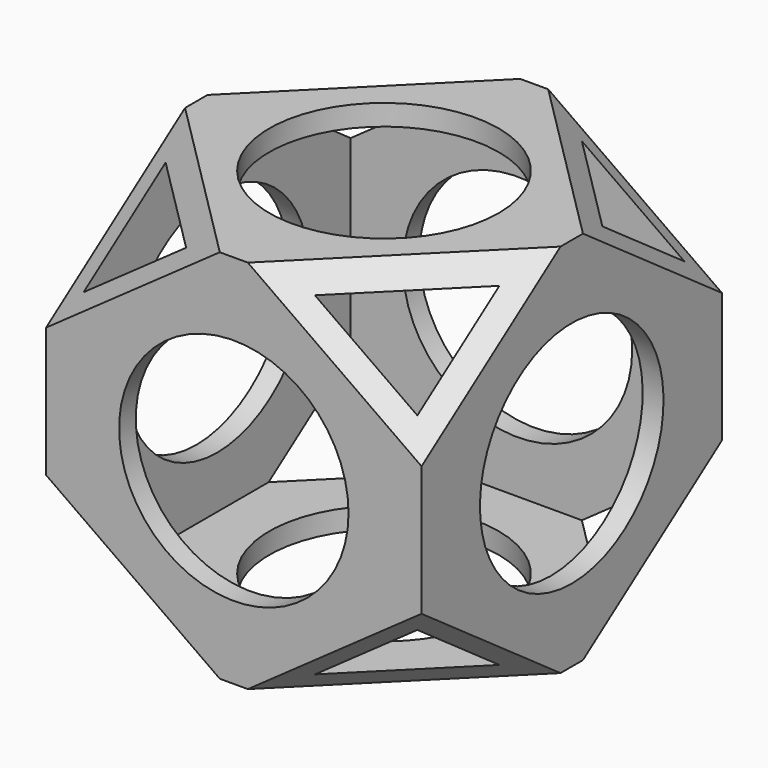
from build123d import *

# Parameters (mm, degrees)
BOX004_W                = 140
BOX004_H                = 112
BOX004_DEPTH            = 112
BOX004_ROLL_ANGLE       = 45
BOX004_PLACEMENT_ANGLE  = -45
BOX005_W                = 180
BOX005_H                = 180
BOX005_DEPTH            = 180
BOX005_ROLL_ANGLE       = 45
BOX005_PLACEMENT_ANGLE  = -45
BOX002_W                = 140
BOX002_H                = 112
BOX002_DEPTH            = 112
BOX002_ROLL_ANGLE       = 45
BOX002_PLACEMENT_ANGLE  = 45
BOX003_W                = 180
BOX003_H                = 180
BOX003_DEPTH            = 180
BOX003_ROLL_ANGLE       = 45
BOX003_PLACEMENT_ANGLE  = 45
CYLINDER_R              = 27.5
CYLINDER_DEPTH          = 120
CYLINDER001_R           = 27.5
CYLINDER001_DEPTH       = 120
CYLINDER001_ROLL_ANGLE  = 90
CYLINDER002_R           = 27.5
CYLINDER002_DEPTH       = 120
CYLINDER002_PITCH_ANGLE = 90
BOX001_W                = 80
BOX001_H                = 80
BOX001_DEPTH            = 80
BOX_W                   = 90
BOX_H                   = 90
BOX_DEPTH               = 90


with BuildPart() as cube004:
    # Box004 → Box004 (new body)
    with BuildSketch(Plane.XY):
        with Locations((70, 56)):
            Rectangle(BOX004_W, BOX004_H)
    extrude(amount=BOX004_DEPTH)


with BuildPart() as cube004_1:
    # Box004 roll: moved
    add(cube004.part.rotate(Axis((0, 0, 0), (1, 0, 0)), BOX004_ROLL_ANGLE))


with BuildPart() as cube004_2:
    # Box004 placement: moved
    add(cube004_1.part.moved(Location((-49.497475, 49.497475, -79.195959))).rotate(Axis((-49.497475, 49.497475, -79.195959), (0, 0, 1)), BOX004_PLACEMENT_ANGLE))


with BuildPart() as cut002:
    # Box005 → Box005 (new body)
    with BuildSketch(Plane.XY):
        with Locations((90, 90)):
            Rectangle(BOX005_W, BOX005_H)
    extrude(amount=BOX005_DEPTH)


with BuildPart() as cut002_1:
    # Box005 roll: moved
    add(cut002.part.rotate(Axis((0, 0, 0), (1, 0, 0)), BOX005_ROLL_ANGLE))


with BuildPart() as cut002_2:
    # Box005 placement: moved
    add(cut002_1.part.moved(Location((-63.63961, 63.63961, -127.279221))).rotate(Axis((-63.63961, 63.63961, -127.279221), (0, 0, 1)), BOX005_PLACEMENT_ANGLE))

    # Cut002: cut Cube004
    add(cube004_2.part, mode=Mode.SUBTRACT)


with BuildPart() as cube002:
    # Box002 → Box002 (new body)
    with BuildSketch(Plane.XY):
        with Locations((70, 56)):
            Rectangle(BOX002_W, BOX002_H)
    extrude(amount=BOX002_DEPTH)


with BuildPart() as cube002_1:
    # Box002 roll: moved
    add(cube002.part.rotate(Axis((0, 0, 0), (1, 0, 0)), BOX002_ROLL_ANGLE))


with BuildPart() as cube002_2:
    # Box002 placement: moved
    add(cube002_1.part.moved(Location((-49.497475, -49.497475, -79.195959))).rotate(Axis((-49.497475, -49.497475, -79.195959), (0, 0, 1)), BOX002_PLACEMENT_ANGLE))


with BuildPart() as cut001:
    # Box003 → Box003 (new body)
    with BuildSketch(Plane.XY):
        with Locations((90, 90)):
            Rectangle(BOX003_W, BOX003_H)
    extrude(amount=BOX003_DEPTH)


with BuildPart() as cut001_1:
    # Box003 roll: moved
    add(cut001.part.rotate(Axis((0, 0, 0), (1, 0, 0)), BOX003_ROLL_ANGLE))


with BuildPart() as cut001_2:
    # Box003 placement: moved
    add(cut001_1.part.moved(Location((-63.63961, -63.63961, -127.279221))).rotate(Axis((-63.63961, -63.63961, -127.279221), (0, 0, 1)), BOX003_PLACEMENT_ANGLE))

    # Cut001: cut Cube002
    add(cube002_2.part, mode=Mode.SUBTRACT)


with BuildPart() as cylinder:
    # Cylinder → Cylinder (new body)
    with BuildSketch(Plane.XY.offset(-60)):
        Circle(CYLINDER_R)
    extrude(amount=CYLINDER_DEPTH)


with BuildPart() as cylinder001:
    # Cylinder001 → Cylinder001 (new body)
    with BuildSketch(Plane.XY):
        Circle(CYLINDER001_R)
    extrude(amount=CYLINDER001_DEPTH)


with BuildPart() as cylinder001_1:
    # Cylinder001 roll: moved
    add(cylinder001.part.rotate(Axis((0, 0, 0), (1, 0, 0)), CYLINDER001_ROLL_ANGLE))


with BuildPart() as cylinder001_2:
    # Cylinder001 placement: moved
    add(cylinder001_1.part.moved(Location((0, 60, 0))))


with BuildPart() as cylinder002:
    # Cylinder002 → Cylinder002 (new body)
    with BuildSketch(Plane.XY):
        Circle(CYLINDER002_R)
    extrude(amount=CYLINDER002_DEPTH)


with BuildPart() as cylinder002_1:
    # Cylinder002 pitch: moved
    add(cylinder002.part.rotate(Axis((0, 0, 0), (0, 1, 0)), CYLINDER002_PITCH_ANGLE))


with BuildPart() as cylinder002_2:
    # Cylinder002 placement: moved
    add(cylinder002_1.part.moved(Location((-60, 0, 0))))


with BuildPart() as fusion:
    # Box001 → Box001 (new body)
    with BuildSketch(Plane(origin=(-40, -40, -40), x_dir=(1, 0, 0), z_dir=(0, 0, 1))):
        with Locations((40, 40)):
            Rectangle(BOX001_W, BOX001_H)
    extrude(amount=BOX001_DEPTH)

    # Fusion: union Cylinder, Cylinder001, Cylinder002
    add(cylinder.part)
    add(cylinder001_2.part)
    add(cylinder002_2.part)


with BuildPart() as cut004:
    # Box → Box (new body)
    with BuildSketch(Plane(origin=(-45, -45, -45), x_dir=(1, 0, 0), z_dir=(0, 0, 1))):
        with Locations((45, 45)):
            Rectangle(BOX_W, BOX_H)
    extrude(amount=BOX_DEPTH)

    # Cut: cut Fusion
    add(fusion.part, mode=Mode.SUBTRACT)

    # Cut003: cut Cut001
    add(cut001_2.part, mode=Mode.SUBTRACT)

    # Cut004: cut Cut002
    add(cut002_2.part, mode=Mode.SUBTRACT)


solid = cut004.part
